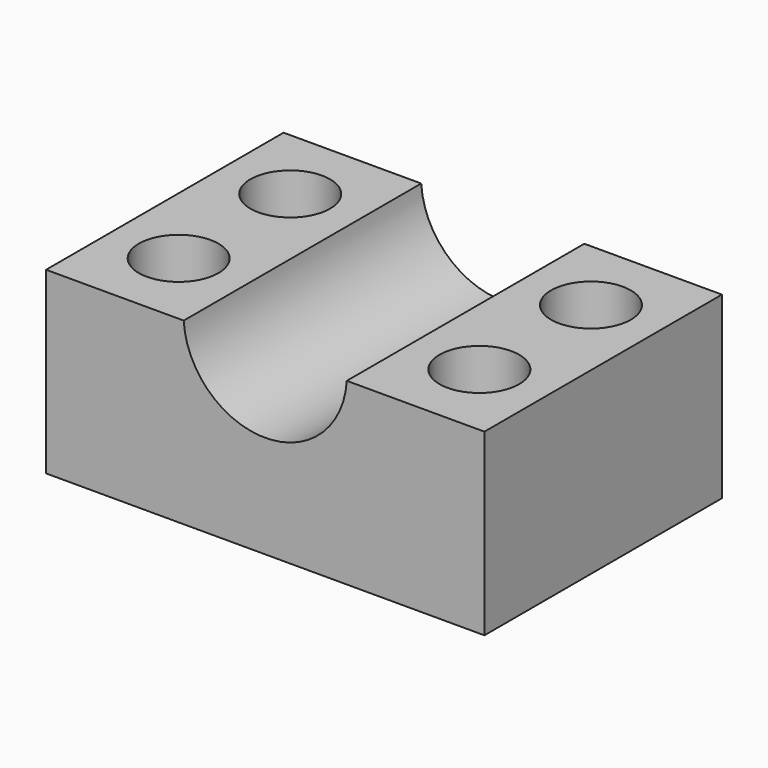
from build123d import *

# Parameters (mm, degrees)
PAD016_DEPTH    = 14.9
SKETCH037_R     = 2
POCKET017_DEPTH = 9.251
SKETCH038_R     = 3
POCKET018_DEPTH = 2.5


with BuildPart() as part:
    # Sketch036 (on DatumPlane) → Pad016 (new body)
    with BuildSketch(Plane.XZ.offset(9.9)):
        with BuildLine():
            Line((-22, -0.25), (-22, -9.25))
            Line((-22, -9.25), (0, -9.25))
            Line((0, -9.25), (0, -0.25))
            Line((-6.907629, -0.25), (0, -0.25))
            ThreePointArc((-15.092371, -0.25), (-11, -4.1), (-6.907629, -0.25))
            Line((-15.092371, -0.25), (-22, -0.25))
        make_face()
    extrude(amount=PAD016_DEPTH)

    # Sketch037 → Pocket017 (cut, through all)
    with BuildSketch(Plane.XY):
        with Locations((-18.546185, -13.8)):
            Circle(SKETCH037_R)
        with Locations((-18.546185, -20.8)):
            Circle(SKETCH037_R)
        with Locations((-3.453815, -20.8)):
            Circle(SKETCH037_R)
        with Locations((-3.453815, -13.8)):
            Circle(SKETCH037_R)
    extrude(amount=-POCKET017_DEPTH, mode=Mode.SUBTRACT)

    # Sketch038 (on DatumPlane) → Pocket018 (cut)
    with BuildSketch(Plane.XY.offset(-9.25)):
        with Locations((-18.546185, -13.8)):
            Circle(SKETCH038_R)
        with Locations((-18.546185, -20.8)):
            Circle(SKETCH038_R)
        with Locations((-3.453815, -13.8)):
            Circle(SKETCH038_R)
        with Locations((-3.453815, -20.8)):
            Circle(SKETCH038_R)
    extrude(amount=POCKET018_DEPTH, mode=Mode.SUBTRACT)


solid = part.part
